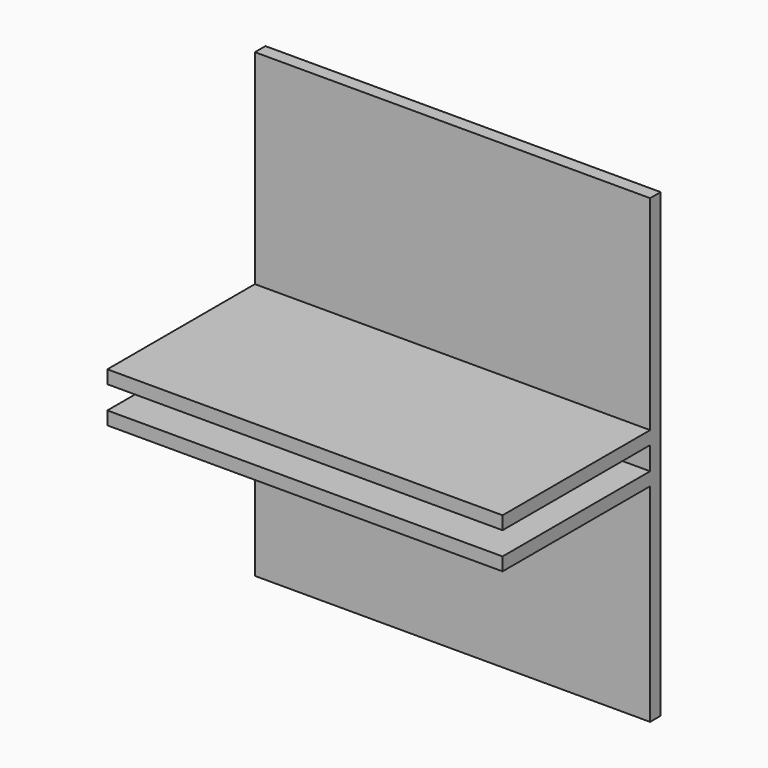
from build123d import *

# Parameters (mm, degrees)
F0_W     = 60
F0_H     = 31
F0_H_2   = 2
F0_H_3   = 3.5
F0_H_4   = 31.5
F1_DEPTH = 2
F2_DEPTH = 30


with BuildPart() as f1:
    # F0 (on Front) → F1 (new body)
    with BuildSketch(Plane.XZ):
        with Locations((0, 19.5)):
            Rectangle(F0_W, F0_H)
        with Locations((0, 3)):
            Rectangle(F0_W, F0_H_2)
        with Locations((0, 0.25)):
            Rectangle(F0_W, F0_H_3)
        with Locations((0, -19.25)):
            Rectangle(F0_W, F0_H_4)
        with Locations((0, -2.5)):
            Rectangle(F0_W, F0_H_2)
    extrude(amount=F1_DEPTH)

    # F0 (on Front) → F2 (join)
    with BuildSketch(Plane.XZ):
        with Locations((0, 3)):
            Rectangle(F0_W, F0_H_2)
        with Locations((0, -2.5)):
            Rectangle(F0_W, F0_H_2)
    extrude(amount=F2_DEPTH)


solid = f1.part
